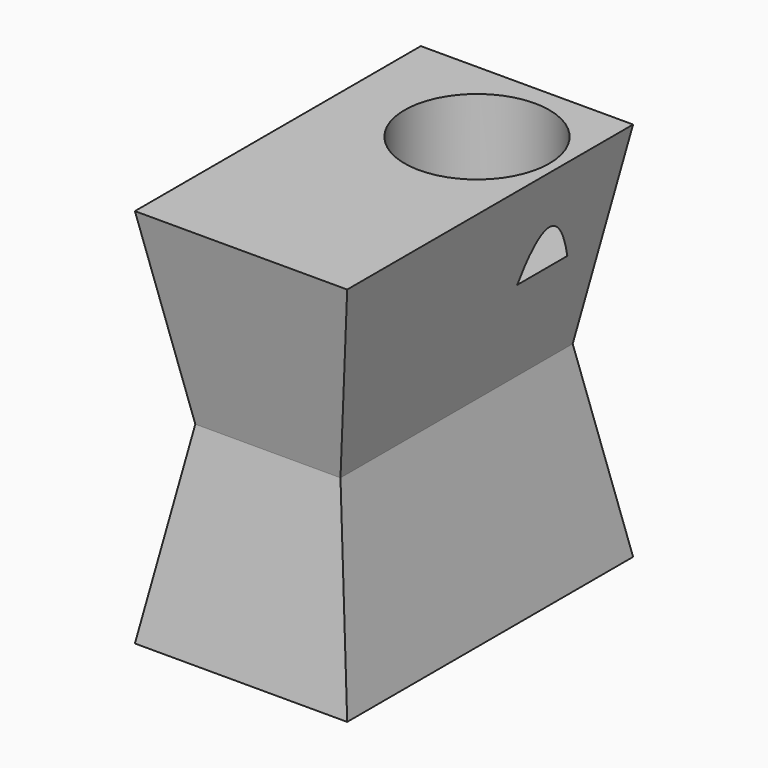
from build123d import *

# Parameters (mm, degrees)
F0_W     = 38.2177424617
F0_H     = 76.4065049589
F1_DEPTH = 50.1015456393
F1_TAPER = -10
F2_R     = 19.05
F3_DEPTH = 25.4


with BuildPart() as f1:
    # F0 (on Top) → F1 (new body, symmetric)
    with BuildSketch(Plane.XY):
        with Locations((19.1088712309, -22.7365922183)):
            Rectangle(F0_W, F0_H)
    extrude(amount=F1_DEPTH, both=True, taper=F1_TAPER)

    # F2 (on face) → F3 (cut)
    with BuildSketch(Plane.XY.offset(50.1015456393)):
        with Locations((25.4, 0)):
            Circle(F2_R)
    extrude(amount=-F3_DEPTH, mode=Mode.SUBTRACT)


solid = f1.part
